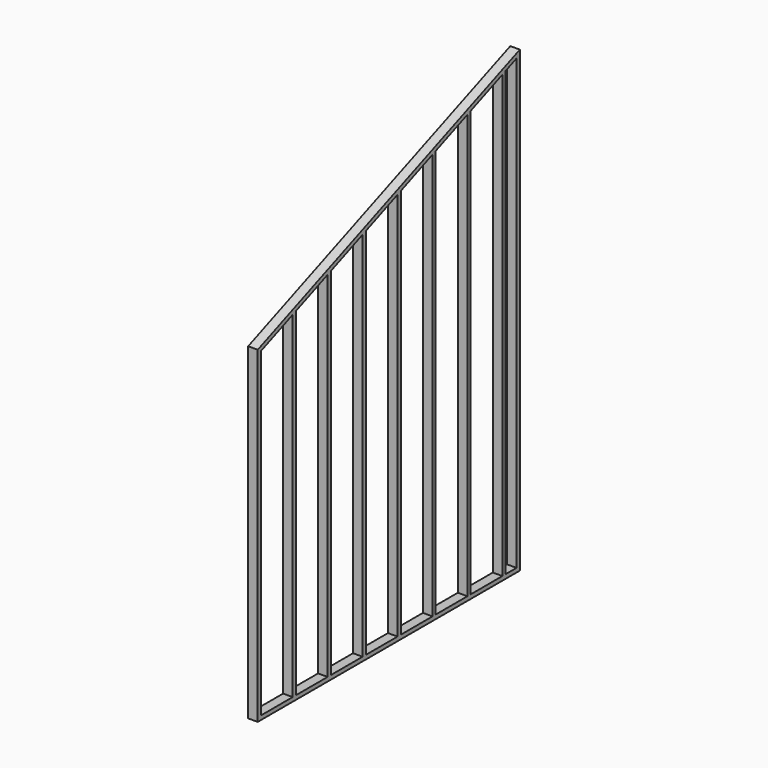
from build123d import *

# Parameters (mm, degrees)
F1_DEPTH = 88.9
F3_DEPTH = 88.901


with BuildPart() as f1:
    # F0 (on Right) → F1 (new body)
    with BuildSketch(Plane.YZ):
        Polygon((0, 3048), (0, 0), (3048, 0), (3048, 4267.2), align=None)
    extrude(amount=F1_DEPTH)

    # F2 (on face) → F3 (cut, through all)
    with BuildSketch(Plane.YZ.offset(88.9)):
        Polygon((406.4, 3169.525044), (38.1, 3022.205044), (38.1, 38.1), (406.4, 38.1), align=None)
        Polygon((812.8, 3332.085044), (444.5, 3184.765044), (444.5, 38.1), (812.8, 38.1), align=None)
        Polygon((1219.2, 3494.645044), (850.9, 3347.325044), (850.9, 38.1), (1219.2, 38.1), align=None)
        Polygon((1625.6, 3657.205044), (1257.3, 3509.885044), (1257.3, 38.1), (1625.6, 38.1), align=None)
        Polygon((2032, 3819.765044), (1663.7, 3672.445044), (1663.7, 38.1), (2032, 38.1), align=None)
        Polygon((2438.4, 3982.325044), (2070.1, 3835.005044), (2070.1, 38.1), (2438.4, 38.1), align=None)
        Polygon((2844.8, 4144.885044), (2476.5, 3997.565044), (2476.5, 38.1), (2844.8, 38.1), align=None)
        Polygon((3009.9, 4210.925044), (2882.9, 4160.125044), (2882.9, 38.1), (3009.9, 38.1), align=None)
    extrude(amount=-F3_DEPTH, mode=Mode.SUBTRACT)


solid = f1.part
